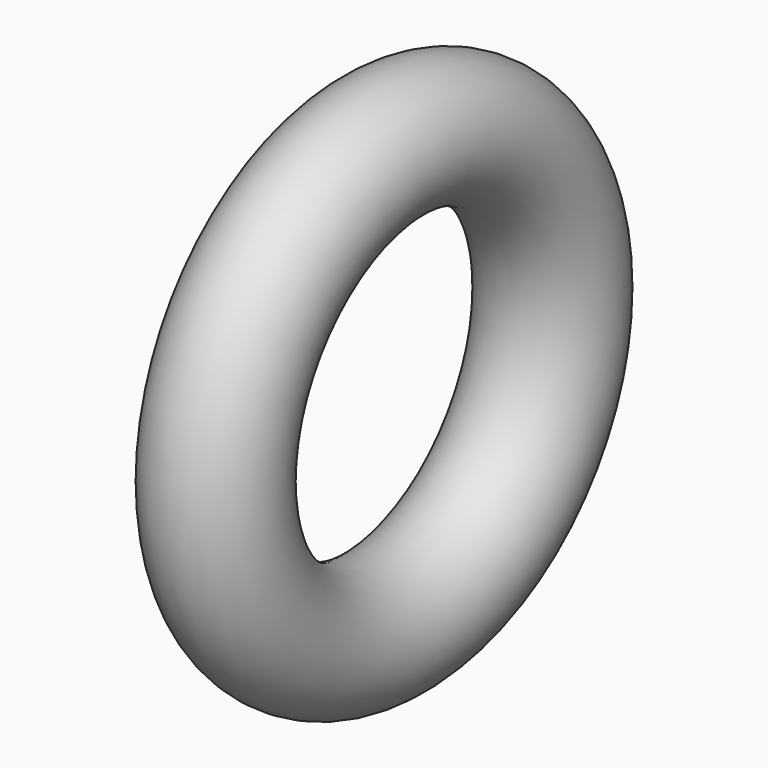
from build123d import *

# Parameters (mm, degrees)
F0_R = 25.4


with BuildPart() as f1:
    # F0 (on Top) → F1 (revolve)
    with BuildSketch(Plane.XY):
        Circle(F0_R)
    revolve(axis=Axis((20.849369, -85.498318, 0), (1, 0, 0)))


solid = f1.part
